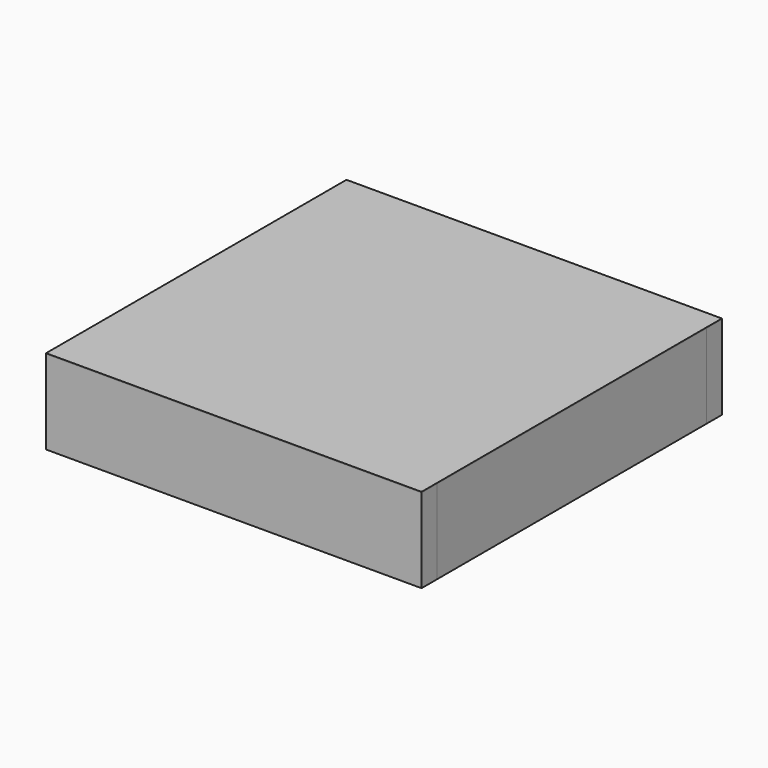
from build123d import *

# Parameters (mm, degrees)
F0_W      = 27
F0_H      = 119
F1_DEPTH  = 239
F2_W      = 532
F2_H      = 119
F3_DEPTH  = 27
F5_W      = 478
F5_H      = 478
F6_DEPTH  = 9
F7_W      = 25
F7_H      = 452.9
F8_DEPTH  = 30
F7_W_2    = 452.9
F7_H_2    = 25
F9_W      = 532
F9_H      = 532
F10_DEPTH = 1.2


with BuildPart() as f1:
    # F0 (on Front) → F1 (new body, symmetric)
    with BuildSketch(Plane.XZ):
        with Locations((-252.5, 59.5)):
            Rectangle(F0_W, F0_H)
    extrude(amount=F1_DEPTH, both=True)


with BuildPart() as f1b:
    # F0 (on Front) → F1, piece 2 (new body, symmetric)
    with BuildSketch(Plane.XZ):
        with Locations((252.5, 59.5)):
            Rectangle(F0_W, F0_H)
    extrude(amount=F1_DEPTH, both=True)


with BuildPart() as f3:
    # F2 (on face) → F3 (new body)
    with BuildSketch(Plane.XZ.offset(239)):
        with Locations((0, 59.5)):
            Rectangle(F2_W, F2_H)
    extrude(amount=F3_DEPTH)


with BuildPart() as f4_1:
    # F4: instance of F3
    add(f3.part.mirror(Plane.XZ))


with BuildPart() as f6:
    # F5 (on face) → F6 (new body)
    with BuildSketch(Plane.XY.offset(119)):
        Rectangle(F5_W, F5_H)
    extrude(amount=-F6_DEPTH)


with BuildPart() as f8:
    # F7 (on face) → F8 (new body)
    with BuildSketch(Plane(origin=(0, 0, 110), x_dir=(1, 0, 0), z_dir=(0, 0, -1))):
        with Locations((-226.5, -12.55)):
            Rectangle(F7_W, F7_H)
    extrude(amount=F8_DEPTH)


with BuildPart() as f8b:
    # F7 (on face) → F8, piece 2 (new body)
    with BuildSketch(Plane(origin=(0, 0, 110), x_dir=(1, 0, 0), z_dir=(0, 0, -1))):
        with Locations((12.55, -226.5)):
            Rectangle(F7_W_2, F7_H_2)
    extrude(amount=F8_DEPTH)


with BuildPart() as f8c:
    # F7 (on face) → F8, piece 3 (new body)
    with BuildSketch(Plane(origin=(0, 0, 110), x_dir=(1, 0, 0), z_dir=(0, 0, -1))):
        with Locations((226.5, 12.55)):
            Rectangle(F7_W, F7_H)
    extrude(amount=F8_DEPTH)


with BuildPart() as f8d:
    # F7 (on face) → F8, piece 4 (new body)
    with BuildSketch(Plane(origin=(0, 0, 110), x_dir=(1, 0, 0), z_dir=(0, 0, -1))):
        with Locations((-12.55, 226.5)):
            Rectangle(F7_W_2, F7_H_2)
    extrude(amount=F8_DEPTH)


with BuildPart() as f10:
    # F9 (on face) → F10 (new body)
    with BuildSketch(Plane.XY.offset(119)):
        Rectangle(F9_W, F9_H)
    extrude(amount=F10_DEPTH)


solid = Compound([f1.part, f1b.part, f3.part, f4_1.part, f6.part, f8.part, f8b.part, f8c.part, f8d.part, f10.part])
